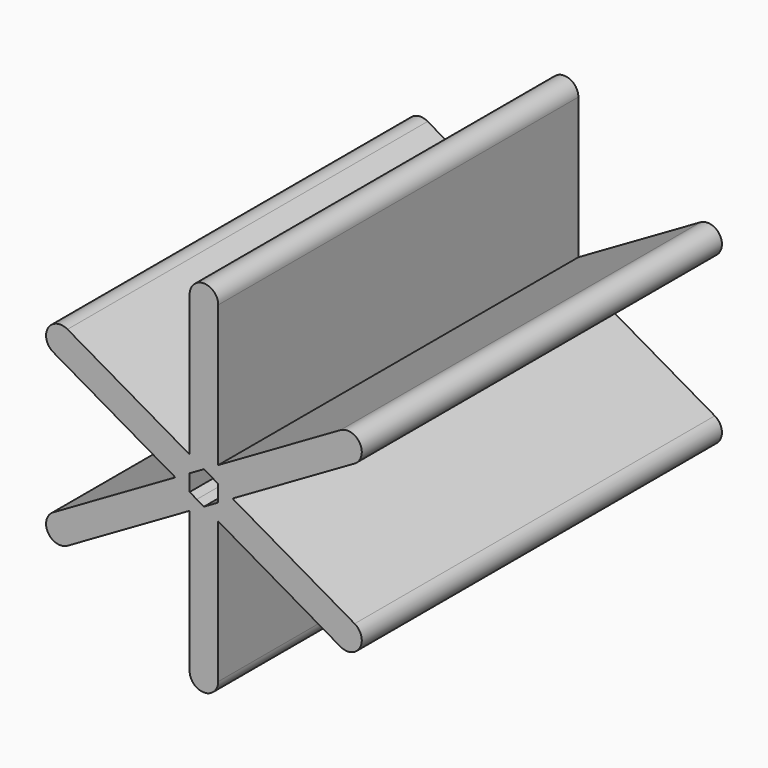
from build123d import *

# Parameters (mm, degrees)
F1_DEPTH = 200


with BuildPart() as f1:
    # F0 (on Front) → F1 (new body)
    with BuildSketch(Plane.XZ):
        with BuildLine():
            Line((6.35, -10.9985226281), (0, -7.3323484187))
            Line((0, -7.3323484187), (-6.35, -10.9985226281))
            Line((-6.35, -10.9985226281), (-6.35, -73.65))
            ThreePointArc((-6.35, -73.65), (0, -80), (6.35, -73.65))
            Line((6.35, -73.65), (6.35, -10.9985226281))
        make_face()
        Polygon((-6.35, -10.9985226281), (0, -7.3323484187), (-3.175, -5.499261314), (-6.35, -3.6661742094), align=None)
        Polygon((3.175, -5.499261314), (0, -7.3323484187), (6.35, -10.9985226281), (6.35, -3.6661742094), align=None)
        with BuildLine():
            Line((-6.35, 10.9985226281), (0, 7.3323484187))
            Line((0, 7.3323484187), (6.35, 10.9985226281))
            Line((6.35, 10.9985226281), (6.35, 73.65))
            ThreePointArc((6.35, 73.65), (0, 80), (-6.35, 73.65))
            Line((-6.35, 73.65), (-6.35, 10.9985226281))
        make_face()
        Polygon((6.35, 10.9985226281), (0, 7.3323484187), (3.175, 5.499261314), (6.35, 3.6661742094), align=None)
        Polygon((-3.175, 5.499261314), (0, 7.3323484187), (-6.35, 10.9985226281), (-6.35, 3.6661742094), align=None)
        with BuildLine():
            Line((-6.35, -10.9985226281), (-6.35, -3.6661742094))
            Line((-6.35, -3.6661742094), (-12.7, 0))
            Line((-12.7, 0), (-66.9577709887, -31.325738686))
            ThreePointArc((-66.9577709887, -31.325738686), (-69.2820323028, -40), (-60.6077709887, -42.324261314))
            Line((-60.6077709887, -42.324261314), (-6.35, -10.9985226281))
        make_face()
        Polygon((-12.7, 0), (-6.35, -3.6661742094), (-6.35, 0), (-6.35, 3.6661742094), align=None)
        Polygon((6.35, 0), (6.35, -3.6661742094), (12.7, 0), (6.35, 3.6661742094), align=None)
        with BuildLine():
            Line((12.7, 0), (6.35, -3.6661742094))
            Line((6.35, -3.6661742094), (6.35, -10.9985226281))
            Line((6.35, -10.9985226281), (60.6077709887, -42.324261314))
            ThreePointArc((60.6077709887, -42.324261314), (69.2820323028, -40), (66.9577709887, -31.325738686))
            Line((66.9577709887, -31.325738686), (12.7, 0))
        make_face()
        with BuildLine():
            Line((-12.7, 0), (-6.35, 3.6661742094))
            Line((-6.35, 3.6661742094), (-6.35, 10.9985226281))
            Line((-6.35, 10.9985226281), (-60.6077709887, 42.324261314))
            ThreePointArc((-60.6077709887, 42.324261314), (-69.2820323028, 40), (-66.9577709887, 31.325738686))
            Line((-66.9577709887, 31.325738686), (-12.7, 0))
        make_face()
        with BuildLine():
            Line((6.35, 10.9985226281), (6.35, 3.6661742094))
            Line((6.35, 3.6661742094), (12.7, 0))
            Line((12.7, 0), (66.9577709887, 31.325738686))
            ThreePointArc((66.9577709887, 31.325738686), (69.2820323028, 40), (60.6077709887, 42.324261314))
            Line((60.6077709887, 42.324261314), (6.35, 10.9985226281))
        make_face()
    extrude(amount=F1_DEPTH)


solid = f1.part
